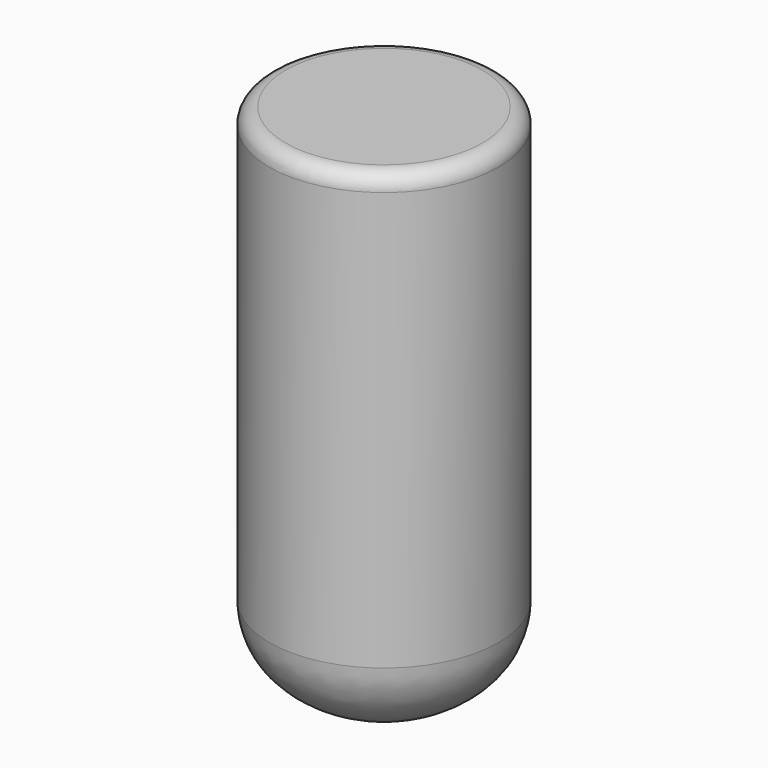
from build123d import *


with BuildPart() as f1:
    # F0 (on Front) → F1 (revolve)
    with BuildSketch(Plane.XZ):
        with BuildLine():
            ThreePointArc((-15.591211, 32.004002), (-17.387262, 31.260054), (-18.131211, 29.464002))
            Line((-18.131211, 29.464002), (-18.131211, -36.733858))
            add(Edge.make_bspline(
                [(-18.131211, -36.733858), (-17.692688, -47.196373), (-6.900862, -50.4063), (0, -51.523872)],
                knots=[0, 0, 0, 0, 23.398404, 23.398404, 23.398404, 23.398404], degree=3))
            Line((0, -51.523872), (0, 32.004002))
            Line((0, 32.004002), (-15.591211, 32.004002))
        make_face()
    revolve(axis=Axis((0, 0, -9.759935), (0, 0, -1)))


solid = f1.part
